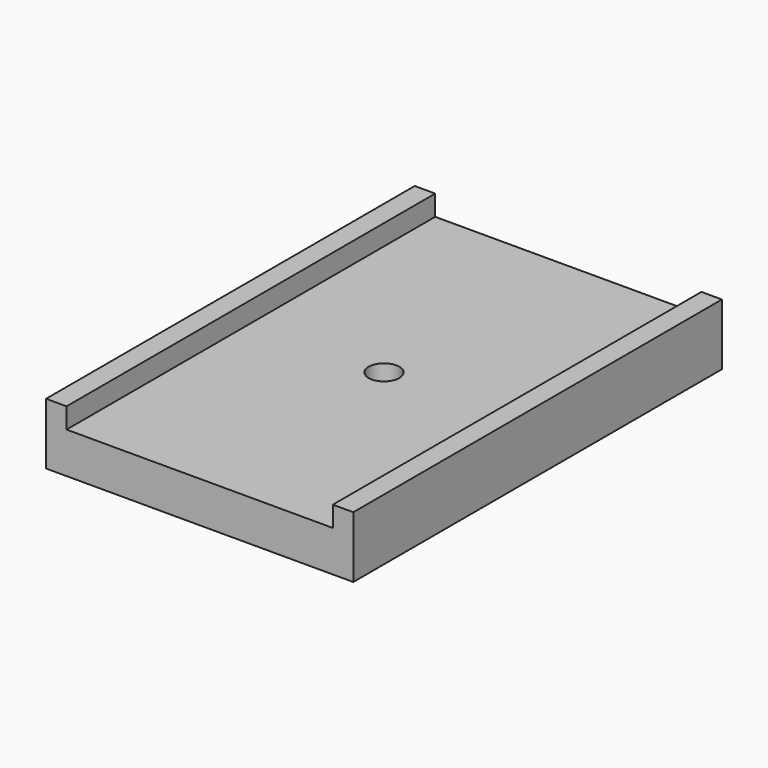
from build123d import *

# Parameters (mm, degrees)
F0_W           = 30
F0_H           = 45
F1_DEPTH       = 4
F3_D           = 2
F3_DEPTH       = 20
F3_TIP         = 0.600860619
F4_W           = 2
F4_H           = 45
F5_DEPTH       = 2
F6_W           = 3
F6_H           = 19
F7_DEPTH       = 0.5
F8_D           = 3
F8_DEPTH       = 6
F8_CBORE_D     = 6
F8_CBORE_DEPTH = 2
F8_TIP         = 0.9012909285


with BuildPart() as f1:
    # F0 (on Top) → F1 (new body)
    with BuildSketch(Plane.XY):
        Rectangle(F0_W, F0_H)
    extrude(amount=F1_DEPTH)

    # F3
    with Locations(Plane(origin=(0, 22.5, 0), x_dir=(-1, 0, 0), z_dir=(0, 1, 0))):
        with Locations((-7, 2), (7, 2)):
            Hole(F3_D / 2, depth=F3_DEPTH)
            with Locations((0, 0, -(F3_DEPTH + F3_TIP / 2))):  # 118° drill point
                Cone(0, F3_D / 2, F3_TIP, mode=Mode.SUBTRACT)

    # F4 (on face) → F5 (join)
    with BuildSketch(Plane.XY.offset(4)):
        with Locations((-14, 0)):
            Rectangle(F4_W, F4_H)
        with Locations((14, 0)):
            Rectangle(F4_W, F4_H)
    extrude(amount=F5_DEPTH)

    # F6 (on face) → F7 (cut)
    with BuildSketch(Plane(origin=(0, 0, 0), x_dir=(1, 0, 0), z_dir=(0, 0, -1))):
        with Locations((0, -13)):
            Rectangle(F6_W, F6_H)
    extrude(amount=-F7_DEPTH, mode=Mode.SUBTRACT)

    # F8
    with Locations(Plane(origin=(0, 0, 0), x_dir=(1, 0, 0), z_dir=(0, 0, -1))):
        with Locations((0, 0)):
            CounterBoreHole(F8_D / 2, F8_CBORE_D / 2, F8_CBORE_DEPTH, depth=F8_DEPTH)
            with Locations((0, 0, -(F8_DEPTH + F8_TIP / 2))):  # 118° drill point
                Cone(0, F8_D / 2, F8_TIP, mode=Mode.SUBTRACT)


solid = f1.part
